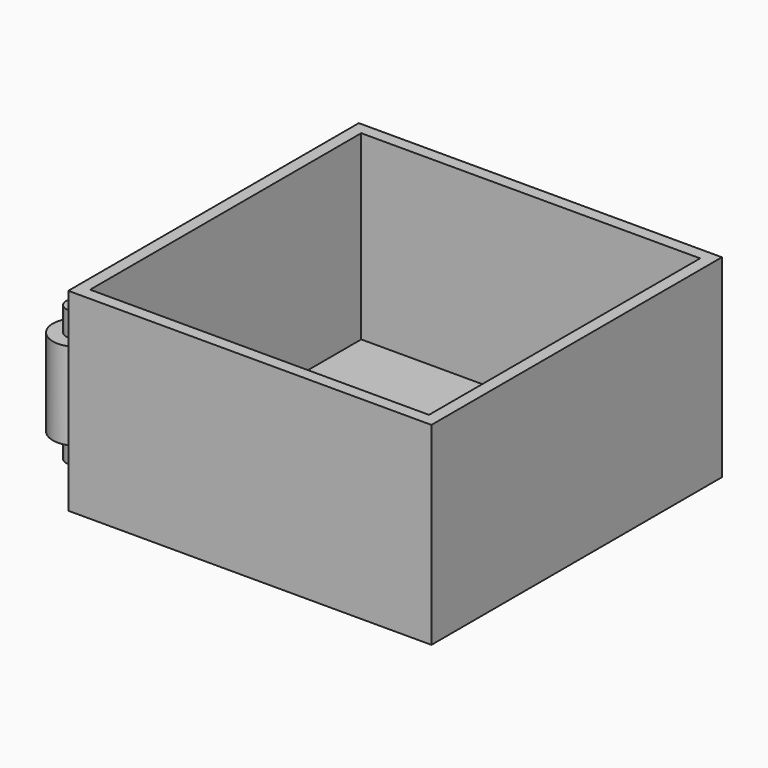
from build123d import *

# Parameters (mm, degrees)
F0_W     = 75
F0_H     = 75
F1_DEPTH = 40
F2_T     = -2.5
F5_DEPTH = 9
F7_R     = 2.25
F8_DEPTH = 5
F6_R     = 2.25
F9_DEPTH = 5


with BuildPart() as f1:
    # F0 (on Top) → F1 (new body)
    with BuildSketch(Plane.XY):
        with Locations((37.5, 37.5)):
            Rectangle(F0_W, F0_H)
    extrude(amount=F1_DEPTH)

    # F2
    f2_openings = [f1.faces().sort_by_distance(p)[0] for p in [
        (37.5, 37.5, 40),
    ]]
    offset(amount=F2_T, openings=f2_openings)

    # F4 (on offset) → F5 (join, symmetric)
    with BuildSketch(Plane(origin=(0, 0, 20), x_dir=(1, 0, 0), z_dir=(0, 0, -1))):
        with BuildLine():
            Line((0, -10), (0, -2))
            ThreePointArc((0, -2), (-8, -6), (0, -10))
        make_face()
    extrude(amount=F5_DEPTH, both=True)

    # F7 (on face) → F8 (join)
    with BuildSketch(Plane(origin=(0, 0, 11), x_dir=(1, 0, 0), z_dir=(0, 0, -1))):
        with Locations((-3, -6)):
            Circle(F7_R)
    extrude(amount=F8_DEPTH)

    # F6 (on face) → F9 (join)
    with BuildSketch(Plane.XY.offset(29)):
        with Locations((-3, 6)):
            Circle(F6_R)
    extrude(amount=F9_DEPTH)


solid = f1.part
